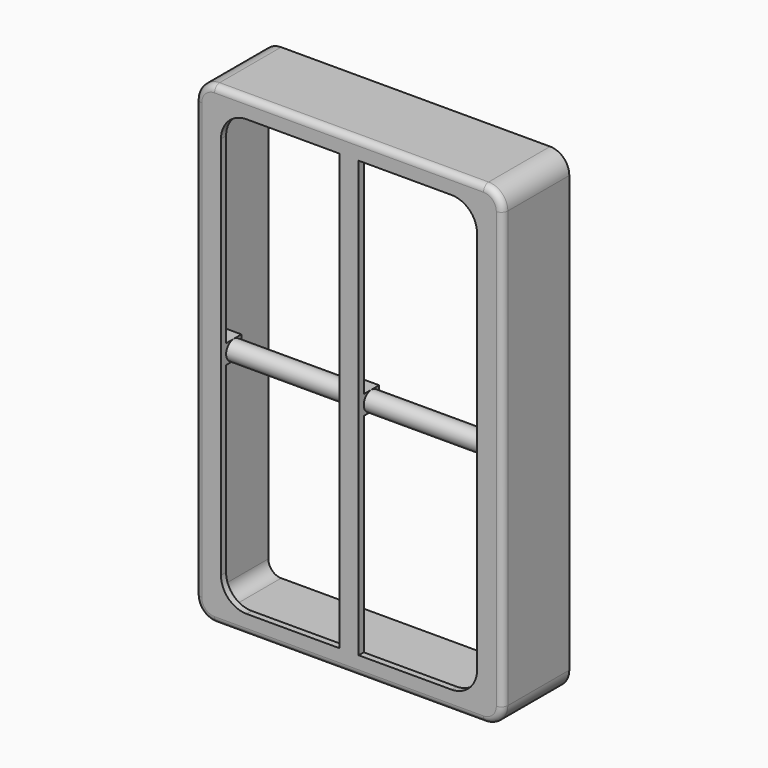
from build123d import *

# Parameters (mm, degrees)
F1_START      = 2.5
F1_DEPTH      = 13
F2_T          = -1
F3_R          = 1
F5_DEPTH      = 13.001
F6_W          = 2.9999987804
F6_H          = 3
F7_DEPTH      = 23
F7_DEPTH_BACK = 23
F8_W          = 4
F8_H          = 4
F8_R          = 1.5
F9_DEPTH      = 18.5
F10_W         = 4
F10_H         = 4
F10_R         = 1.5
F11_DEPTH     = 18.5


with BuildPart() as f1:
    # F0 (on Front) → F1 (new body)
    with BuildSketch(Plane.XZ.offset(F1_START)):
        with BuildLine():
            ThreePointArc((24, 34), (23.1213203436, 36.1213203436), (21, 37))
            Line((21, 37), (-21, 37))
            ThreePointArc((-21, 37), (-23.1213203436, 36.1213203436), (-24, 34))
            Line((-24, 34), (-24, -34))
            ThreePointArc((-24, -34), (-23.1213203436, -36.1213203436), (-21, -37))
            Line((-21, -37), (21, -37))
            ThreePointArc((21, -37), (23.1213203436, -36.1213203436), (24, -34))
            Line((24, -34), (24, 34))
        make_face()
    extrude(amount=F1_DEPTH)

    # F2
    f2_openings = [f1.faces().sort_by_distance(p)[0] for p in [
        (0, -2.5, 0),
    ]]
    offset(amount=F2_T, openings=f2_openings)

    # F3
    f3_edges = [f1.edges().sort_by_distance(p)[0] for p in [
        (-24, -15.5, 0),
    ]]
    fillet(f3_edges, radius=F3_R)

    # F4 (on face) → F5 (cut, through all)
    with BuildSketch(Plane.XZ.offset(15.5)):
        with BuildLine():
            Line((20, -30), (20, 30))
            ThreePointArc((20, 30), (18.8284271247, 32.8284271247), (16, 34))
            Line((16, 34), (1.5, 34))
            Line((1.5, 34), (1.5, -34))
            Line((1.5, -34), (16, -34))
            ThreePointArc((16, -34), (18.8284271247, -32.8284271247), (20, -30))
        make_face()
        with BuildLine():
            ThreePointArc((-16, 34), (-18.8284271247, 32.8284271247), (-20, 30))
            Line((-20, 30), (-20, -30))
            ThreePointArc((-20, -30), (-18.8284271247, -32.8284271247), (-16, -34))
            Line((-16, -34), (-1.5, -34))
            Line((-1.5, -34), (-1.5, 34))
            Line((-1.5, 34), (-16, 34))
        make_face()
    extrude(amount=-F5_DEPTH, mode=Mode.SUBTRACT)

    # F6 (on Right) → F7 (join, two sides)
    with BuildSketch(Plane.YZ) as f7_sk:
        with Locations((-13.0000006098, 0)):
            Rectangle(F6_W, F6_H)
    extrude(amount=F7_DEPTH)
    extrude(f7_sk.sketch, amount=-F7_DEPTH_BACK)

    # F8 (on face) → F9 (cut, through all)
    with BuildSketch(Plane.YZ.offset(1.5)):
        with Locations((-13, 0)):
            Rectangle(F8_W, F8_H)
        with Locations((-13, 0)):
            Circle(F8_R, mode=Mode.SUBTRACT)
    extrude(amount=F9_DEPTH, mode=Mode.SUBTRACT)

    # F10 (on face) → F11 (cut, through all)
    with BuildSketch(Plane.YZ.offset(-20)):
        with Locations((-13, 0)):
            Rectangle(F10_W, F10_H)
        with Locations((-13, 0)):
            Circle(F10_R, mode=Mode.SUBTRACT)
    extrude(amount=F11_DEPTH, mode=Mode.SUBTRACT)


solid = f1.part
